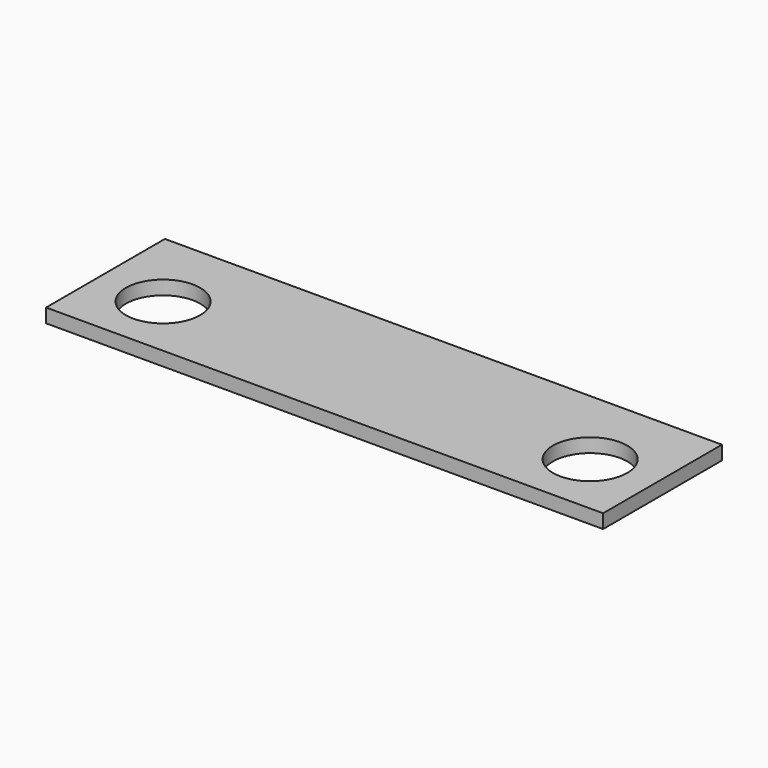
from build123d import *

# Parameters (mm, degrees)
SKETCH_W  = 600
SKETCH_H  = 160
SKETCH_R  = 40
PAD_DEPTH = 15


with BuildPart() as part:
    # Sketch → Pad (new body)
    with BuildSketch(Plane.XY):
        with Locations((300, 80)):
            Rectangle(SKETCH_W, SKETCH_H)
        with Locations((70, 70)):
            Circle(SKETCH_R, mode=Mode.SUBTRACT)
        with Locations((530, 70)):
            Circle(SKETCH_R, mode=Mode.SUBTRACT)
    extrude(amount=PAD_DEPTH)


solid = part.part
